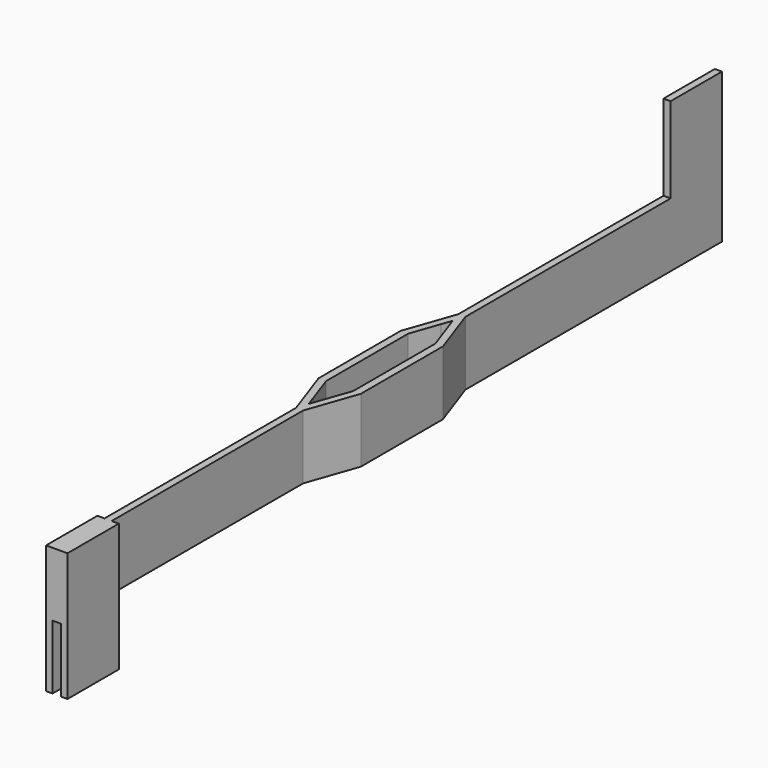
from build123d import *

# Parameters (mm, degrees)
F1_DEPTH = 4.5
F2_W     = 0.5
F2_H     = 4.5
F3_DEPTH = 6
F4_W     = 0.5
F4_H     = 4.5
F5_DEPTH = 9
F6_W     = 0.6
F6_H     = 4.5
F7_DEPTH = 25


with BuildPart() as f1:
    # F0 (on Top) → F1 (new body)
    with BuildSketch(Plane.XY):
        Polygon((-0.469149, 31.306926), (-0.969149, 31.306926), (-0.969149, 8.820471), (-2.198889, 5.306926), (-2.198889, -1.893074), (-0.969149, -5.406618), (-0.969149, -26.693074), (-0.469149, -26.693074), (-0.469149, -5.406618), (0.760592, -1.893074), (0.760592, 5.306926), (-0.469149, 8.820471), align=None)
        Polygon((-1.669149, -1.893074), (-1.669149, 5.306926), (-0.969149, 7.306926), (-0.719149, 8.021212), (-0.469149, 7.306926), (0.230851, 5.306926), (0.230851, -1.893074), (-0.469149, -3.893074), (-0.719149, -4.607359), (-0.969149, -3.893074), align=None, mode=Mode.SUBTRACT)
    extrude(amount=F1_DEPTH)

    # F2 (on face) → F3 (join)
    with BuildSketch(Plane.XY.offset(4.5)):
        with Locations((-0.719149, 29.056926)):
            Rectangle(F2_W, F2_H)
    extrude(amount=F3_DEPTH)

    # F4 (on face) → F5 (join)
    with BuildSketch(Plane.XY.offset(4.5)):
        with Locations((-0.219149, -24.443074)):
            Rectangle(F4_W, F4_H)
        with Locations((-1.219149, -24.443074)):
            Rectangle(F4_W, F4_H)
    extrude(amount=-F5_DEPTH)

    # F6 (on face) → F7 (cut)
    with BuildSketch(Plane(origin=(0, 0, 0), x_dir=(1, 0, 0), z_dir=(0, 0, -1))):
        with Locations((-0.719149, 24.443074)):
            Rectangle(F6_W, F6_H)
    extrude(amount=F7_DEPTH, mode=Mode.SUBTRACT)


solid = f1.part
